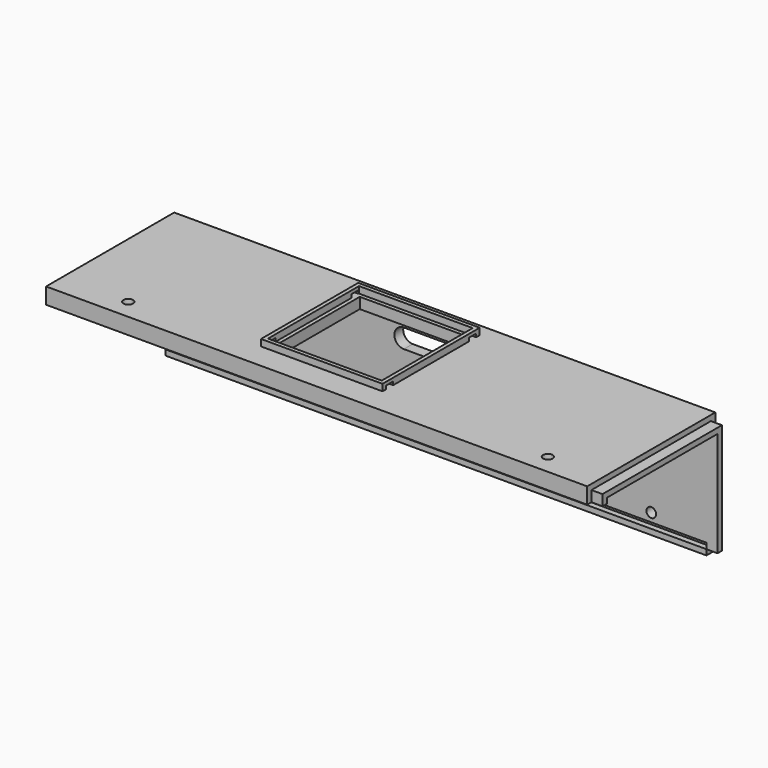
from build123d import *

# Parameters (mm, degrees)
SKETCH_W        = 250
SKETCH_H        = 5
PAD012_DEPTH    = 55
SKETCH023_W     = 2.6
SKETCH023_H     = 2.6
POCKET007_DEPTH = 250.001
SKETCH024_W     = 5.1
SKETCH024_H     = 2.6
POCKET008_DEPTH = 45
SKETCH025_W     = 250
SKETCH025_H     = 4.9
PAD013_DEPTH    = 67.5
SKETCH026_W     = 250
SKETCH026_H     = 2.4
PAD014_DEPTH    = 2.4
SKETCH027_R     = 2.2
HOLE004_DEPTH   = 23.678107
HOLE004_TIPS_R  = 2.2
SKETCH028_R     = 2.2
HOLE005_DEPTH   = 23.678107
HOLE005_TIPS_R  = 2.2
POCKET009_DEPTH = 5
SKETCH030_W     = 48
SKETCH030_H     = 48
POCKET010_DEPTH = 4.9
SKETCH031_W     = 55
SKETCH031_H     = 55
SKETCH031_W_2   = 51.5
SKETCH031_H_2   = 51.5
PAD015_DEPTH    = 3
SKETCH032_W     = 4
SKETCH032_H     = 1.5
POCKET011_DEPTH = 161.951
POCKET012_DEPTH = 5
SKETCH035_W     = 5
SKETCH035_H     = 2.5
PAD016_DEPTH    = 2.6
SKETCH036_W     = 5
SKETCH036_H     = 2.6
PAD017_DEPTH    = 2.4


with BuildPart() as part:
    # Sketch → Pad012 (new body)
    with BuildSketch(Plane.XY):
        with Locations((0, 35)):
            Rectangle(SKETCH_W, SKETCH_H)
    extrude(amount=PAD012_DEPTH)

    # Sketch023 (on Face2 of Pad012) → Pocket007 (cut, through all)
    with BuildSketch(Plane.YZ.offset(125)):
        with Locations((33.8, 3.8)):
            Rectangle(SKETCH023_W, SKETCH023_H)
    extrude(amount=-POCKET007_DEPTH, mode=Mode.SUBTRACT)

    # Sketch024 (on Face7 of Pocket007) → Pocket008 (cut)
    with BuildSketch(Plane(origin=(0, 0, 5.1), x_dir=(1, 0, 0), z_dir=(0, 0, -1))):
        with Locations((-122.45, -33.8)):
            Rectangle(SKETCH024_W, SKETCH024_H)
    extrude(amount=-POCKET008_DEPTH, mode=Mode.SUBTRACT)

    # Sketch025 (on Face6 of Pocket008) → Pad013 (join)
    with BuildSketch(Plane.XZ.offset(-32.5)):
        with Locations((0, 52.55)):
            Rectangle(SKETCH025_W, SKETCH025_H)
    extrude(amount=PAD013_DEPTH)

    # Sketch026 (on Face16 of Pad013) → Pad014 (join)
    with BuildSketch(Plane(origin=(0, 0, 50.1), x_dir=(1, 0, 0), z_dir=(0, 0, -1))):
        with Locations((0, 33.8)):
            Rectangle(SKETCH026_W, SKETCH026_H)
    extrude(amount=PAD014_DEPTH)

    # Sketch027 (on Face1 of Pad014) → Hole004 (cut)
    with BuildSketch(Plane(origin=(0, 37.5, 0), x_dir=(-1, 0, 0), z_dir=(0, 1, 0))):
        with Locations((-95, 9)):
            Circle(SKETCH027_R)
        with Locations((95, 9)):
            Circle(SKETCH027_R)
    extrude(amount=-HOLE004_DEPTH, mode=Mode.SUBTRACT)

    # Hole004 tips → Hole004 tip 1 section 0
    with BuildSketch(Plane(origin=(0, 13.821893, 0), x_dir=(-1, 0, 0), z_dir=(0, 1, 0)), mode=Mode.PRIVATE) as hole004_tip_1_s0:
        with Locations((-95, 9)):
            Circle(HOLE004_TIPS_R)
    loft([hole004_tip_1_s0.sketch, Vertex(95, 12.5, 9)], mode=Mode.SUBTRACT)

    # Hole004 tips → Hole004 tip 2 section 0
    with BuildSketch(Plane(origin=(0, 13.821893, 0), x_dir=(-1, 0, 0), z_dir=(0, 1, 0)), mode=Mode.PRIVATE) as hole004_tip_2_s0:
        with Locations((95, 9)):
            Circle(HOLE004_TIPS_R)
    loft([hole004_tip_2_s0.sketch, Vertex(-95, 12.5, 9)], mode=Mode.SUBTRACT)

    # Sketch028 (on Face14 of Hole004) → Hole005 (cut)
    with BuildSketch(Plane.XY.offset(55)):
        with Locations((-95, -26)):
            Circle(SKETCH028_R)
        with Locations((95, -26)):
            Circle(SKETCH028_R)
    extrude(amount=-HOLE005_DEPTH, mode=Mode.SUBTRACT)

    # Hole005 tips → Hole005 tip 1 section 0
    with BuildSketch(Plane.XY.offset(31.321893), mode=Mode.PRIVATE) as hole005_tip_1_s0:
        with Locations((-95, -26)):
            Circle(HOLE005_TIPS_R)
    loft([hole005_tip_1_s0.sketch, Vertex(-95, -26, 30)], mode=Mode.SUBTRACT)

    # Hole005 tips → Hole005 tip 2 section 0
    with BuildSketch(Plane.XY.offset(31.321893), mode=Mode.PRIVATE) as hole005_tip_2_s0:
        with Locations((95, -26)):
            Circle(HOLE005_TIPS_R)
    loft([hole005_tip_2_s0.sketch, Vertex(95, -26, 30)], mode=Mode.SUBTRACT)

    # Sketch029 (on Face1 of Hole005) → Pocket009 (cut)
    with BuildSketch(Plane(origin=(0, 37.5, 0), x_dir=(-1, 0, 0), z_dir=(0, 1, 0))):
        with BuildLine():
            ThreePointArc((-45, 46.3), (-49.3, 42), (-45, 37.7))
            Line((-45, 37.7), (17, 37.7))
            ThreePointArc((17, 37.7), (21.3, 42), (17, 46.3))
            Line((-45, 46.3), (17, 46.3))
        make_face()
    extrude(amount=-POCKET009_DEPTH, mode=Mode.SUBTRACT)

    # Sketch030 (on Face18 of Pocket009) → Pocket010 (cut)
    with BuildSketch(Plane.XY.offset(55)):
        with Locations((-9.45, 4.09)):
            Rectangle(SKETCH030_W, SKETCH030_H)
    extrude(amount=-POCKET010_DEPTH, mode=Mode.SUBTRACT)

    # Sketch031 (on Face18 of Pocket010) → Pad015 (join)
    with BuildSketch(Plane.XY.offset(55)):
        with Locations((-9.45, 4.09)):
            Rectangle(SKETCH031_W, SKETCH031_H)
        with Locations((-9.45, 4.09)):
            Rectangle(SKETCH031_W_2, SKETCH031_H_2, mode=Mode.SUBTRACT)
    extrude(amount=PAD015_DEPTH)

    # Sketch032 (on Face30 of Pad015) → Pocket011 (cut, through all)
    with BuildSketch(Plane(origin=(-36.95, 0, 0), x_dir=(0, -1, 0), z_dir=(-1, 0, 0))):
        with Locations((-27.59, 55.75)):
            Rectangle(SKETCH032_W, SKETCH032_H)
        with Locations((19.41, 55.75)):
            Rectangle(SKETCH032_W, SKETCH032_H)
    extrude(amount=-POCKET011_DEPTH, mode=Mode.SUBTRACT)

    # Sketch033 (on Face21 of Pocket011) → Pocket012 (cut)
    with BuildSketch(Plane.YZ.offset(125)):
        Polygon((-32.6, 47.7), (-35, 47.7), (-35, 55), (37.5, 55), (37.5, 0), (32.5, 0), (32.5, 2.5), (35, 2.5), (35, 52.55), (-32.6, 52.55), align=None)
    extrude(amount=-POCKET012_DEPTH, mode=Mode.SUBTRACT)

    # Sketch035 (on Face17 of Pocket012) → Pad016 (join)
    with BuildSketch(Plane(origin=(0, 0, 5.1), x_dir=(1, 0, 0), z_dir=(0, 0, -1))):
        with Locations((122.5, -33.75)):
            Rectangle(SKETCH035_W, SKETCH035_H)
    extrude(amount=PAD016_DEPTH)

    # Sketch036 (on Face31 of Pad016) → Pad017 (join)
    with BuildSketch(Plane(origin=(0, 0, 50.1), x_dir=(1, 0, 0), z_dir=(0, 0, -1))):
        with Locations((122.5, 31.3)):
            Rectangle(SKETCH036_W, SKETCH036_H)
    extrude(amount=PAD017_DEPTH)


solid = part.part
